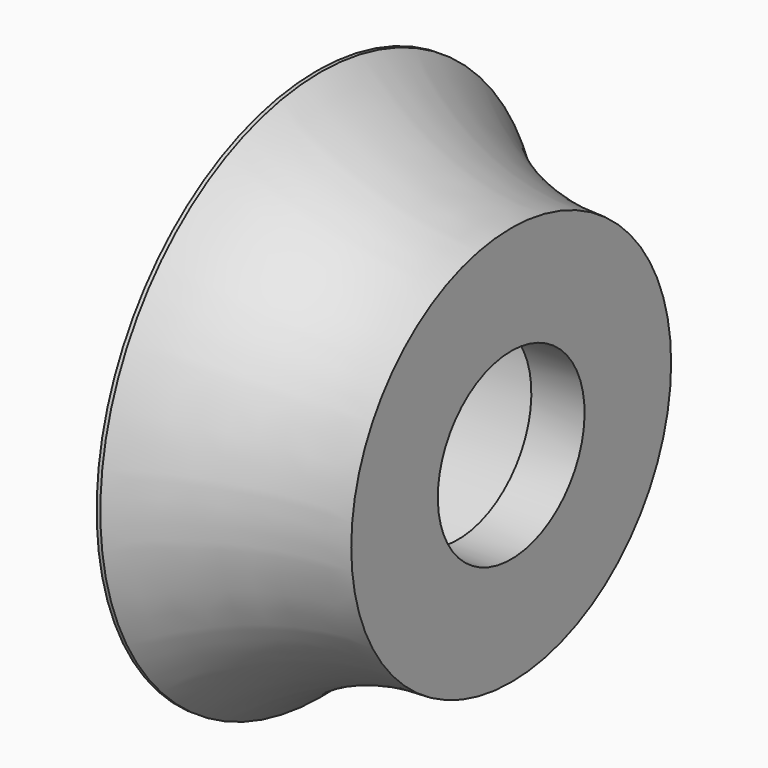
from build123d import *

# Parameters (mm, degrees)
SKETCH010_R     = 8.5
POCKET005_DEPTH = 8
SKETCH011_R     = 5
POCKET006_DEPTH = 10.901


with BuildPart() as part:
    # Sketch009 → Revolution002 (revolve)
    with BuildSketch(Plane.XZ):
        with BuildLine():
            Line((0, 0), (0, 10.9))
            Line((0, 10.9), (0.3, 10.9))
            Line((0.3, 10.9), (0.3, 15))
            Line((0.3, 15), (0.5, 15))
            ThreePointArc((0.5, 15), (5.310501, 11.962003), (10.9, 10.9))
            Line((10.9, 0), (10.9, 10.9))
            Line((0, 0), (10.9, 0))
        make_face()
    revolve(axis=Axis((0, 0, 0), (1, 0, 0)))

    # Sketch010 (on Face1 of Revolution002) → Pocket005 (cut)
    with BuildSketch(Plane(origin=(0, 0, 0), x_dir=(0, 0, -1), z_dir=(-1, 0, 0))):
        Circle(SKETCH010_R)
    extrude(amount=-POCKET005_DEPTH, mode=Mode.SUBTRACT)

    # Sketch011 (on Face8 of Pocket005) → Pocket006 (cut, through all)
    with BuildSketch(Plane(origin=(10.9, 0, 0), x_dir=(0, 0, 1), z_dir=(1, 0, 0))):
        Circle(SKETCH011_R)
    extrude(amount=-POCKET006_DEPTH, mode=Mode.SUBTRACT)


solid = part.part
